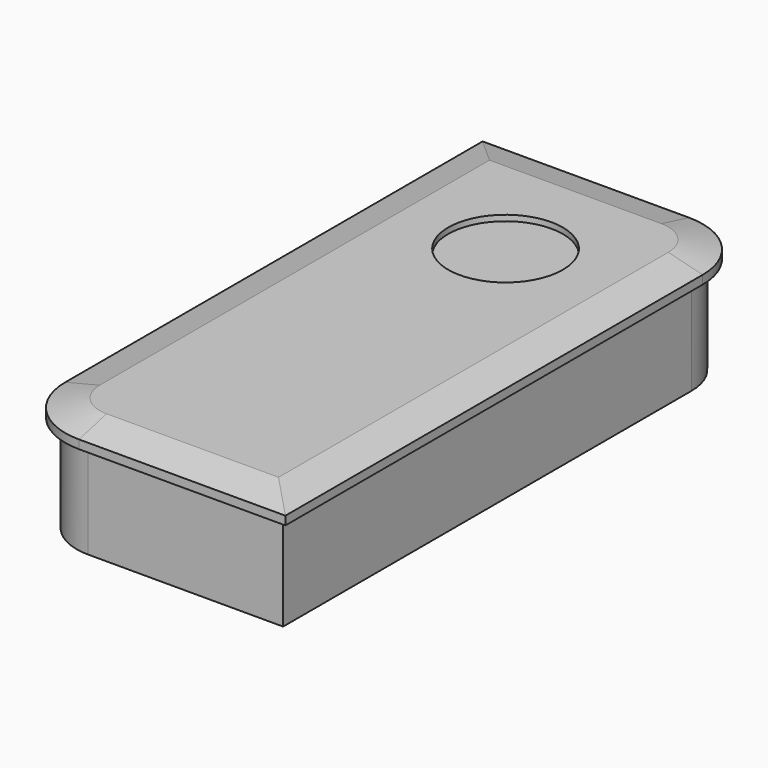
from build123d import *

# Parameters (mm, degrees)
F0_W     = 44
F0_H     = 99
F1_DEPTH = 20
F2_R     = 10
F4_DEPTH = 3
F5_SIZE2 = 1.5
F5_SIZE  = 6
F6_R     = 10
F7_DEPTH = 1
F8_R     = 4.5
F9_DEPTH = 1


with BuildPart() as f1:
    # F0 (on Top) → F1 (new body)
    with BuildSketch(Plane.XY):
        Rectangle(F0_W, F0_H)
    extrude(amount=F1_DEPTH)

    # F2
    f2_edges = [f1.edges().sort_by_distance(p)[0] for p in [
        (22, 49.5, 10),
        (-22, -49.5, 10),
    ]]
    fillet(f2_edges, radius=F2_R)

    # F3 (on face) → F4 (join)
    with BuildSketch(Plane.XY.offset(20)):
        with BuildLine():
            ThreePointArc((24, 39.5), (20.4852813742, 47.9852813742), (12, 51.5))
            Line((12, 51.5), (-24, 51.5))
            Line((-24, 51.5), (-24, -39.5))
            ThreePointArc((-24, -39.5), (-20.4852813742, -47.9852813742), (-12, -51.5))
            Line((-12, -51.5), (24, -51.5))
            Line((24, -51.5), (24, 39.5))
        make_face()
    extrude(amount=-F4_DEPTH)

    # F5
    f5_edges = [f1.edges().sort_by_distance(p)[0] for p in [
        (20.485281, 47.985281, 20),
        (-6, 51.5, 20),
        (-24, 6, 20),
        (-20.485281, -47.985281, 20),
        (6, -51.5, 20),
        (24, -6, 20),
    ]]
    f5_side = f1.faces().sort_by_distance((0, 0, 20))[0]
    chamfer(f5_edges, length=F5_SIZE, length2=F5_SIZE2, reference=f5_side)

    # F6 (on face) → F7 (cut)
    with BuildSketch(Plane.XY.offset(20)):
        with Locations((0, 26.5)):
            Circle(F6_R)
    extrude(amount=-F7_DEPTH, mode=Mode.SUBTRACT)

    # F8 (on face) → F9 (cut)
    with BuildSketch(Plane(origin=(0, 0, 0), x_dir=(1, 0, 0), z_dir=(0, 0, -1))):
        Circle(F8_R)
        with BuildLine():
            Line((-2, -32), (-2, -37))
            ThreePointArc((-2, -37), (0, -39), (2, -37))
            Line((2, -37), (2, -32))
            ThreePointArc((2, -32), (0, -30), (-2, -32))
        make_face()
        with BuildLine():
            Line((2.5, 36.5), (-2.5, 36.5))
            ThreePointArc((-2.5, 36.5), (-4.5, 34.5), (-2.5, 32.5))
            Line((-2.5, 32.5), (2.5, 32.5))
            ThreePointArc((2.5, 32.5), (4.5, 34.5), (2.5, 36.5))
        make_face()
    extrude(amount=-F9_DEPTH, mode=Mode.SUBTRACT)


solid = f1.part
